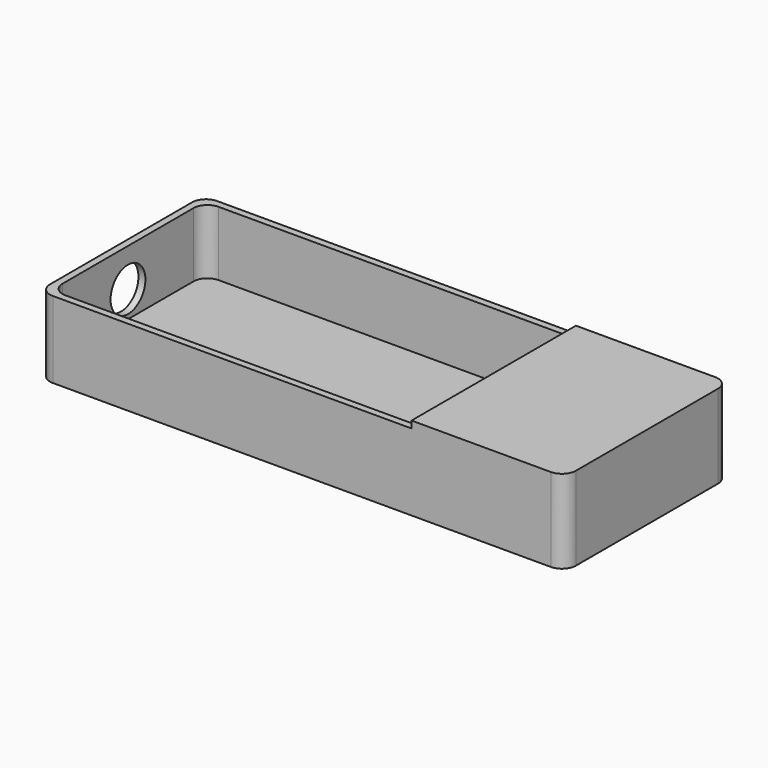
from build123d import *

# Parameters (mm, degrees)
F0_W      = 131
F0_H      = 59
F0_W_2    = 85
F0_H_2    = 55
F0_W_3    = 40
F1_DEPTH  = 22
F2_W      = 40
F2_H      = 2
F3_DEPTH  = 55
F4_W      = 85
F4_H      = 3.4782900475
F5_DEPTH  = 55
F7_DEPTH  = 2
F8_R      = 2
F9_DEPTH  = 2
F10_R     = 4
F11_DEPTH = 20
F12_DEPTH = 20
F13_R     = 4
F14_R     = 6.25
F15_DEPTH = 25


with BuildPart() as f1:
    # F0 (on Top) → F1 (new body)
    with BuildSketch(Plane.XY):
        Rectangle(F0_W, F0_H)
        with Locations((-21, 0)):
            Rectangle(F0_W_2, F0_H_2, mode=Mode.SUBTRACT)
        with Locations((43.5, 0)):
            Rectangle(F0_W_3, F0_H_2, mode=Mode.SUBTRACT)
    extrude(amount=F1_DEPTH)

    # F2 (on face) → F3 (join)
    with BuildSketch(Plane.XZ.offset(-27.5)):
        with Locations((43.5, 21)):
            Rectangle(F2_W, F2_H)
    extrude(amount=F3_DEPTH)

    # F4 (on face) → F5 (join)
    with BuildSketch(Plane.XZ.offset(-27.5)):
        with Locations((-21, 1.7391450237)):
            Rectangle(F4_W, F4_H)
    extrude(amount=F5_DEPTH)

    # F6 (on face) → F7 (join)
    with BuildSketch(Plane.XY.offset(22)):
        Polygon((21.5, -29.5), (65.5, -29.5), (65.5, 29.5), (21.5, 29.5), (21.5, 27.5), (21.5, -27.5), align=None)
    extrude(amount=F7_DEPTH)

    # F8 (on face) → F9 (cut)
    with BuildSketch(Plane(origin=(21.5, 0, 0), x_dir=(0, -1, 0), z_dir=(-1, 0, 0))):
        with Locations((0, 10.4782900475)):
            Circle(F8_R)
    extrude(amount=-F9_DEPTH, mode=Mode.SUBTRACT)

    # F10
    f10_edges = [f1.edges().sort_by_distance(p)[0] for p in [
        (65.5, -29.5, 12),
        (65.5, 29.5, 12),
        (63.5, -27.5, 10),
        (63.5, 27.5, 10),
    ]]
    fillet(f10_edges, radius=F10_R)

    # F11 (add): a face of the model
    f11_faces = [f1.faces().sort_by_distance(p)[0] for p in [
        (-65.5, 0, 11),
    ]]
    extrude(f11_faces, amount=F11_DEPTH)

    # F12 (cut): a face of the model
    f12_faces = [f1.faces().sort_by_distance(p)[0] for p in [
        (-63.5, 0, 12.7391450237),
    ]]
    extrude(f12_faces, amount=-F12_DEPTH, mode=Mode.SUBTRACT)

    # F13
    f13_edges = [f1.edges().sort_by_distance(p)[0] for p in [
        (-83.5, 27.5, 12.739145),
        (-85.5, -29.5, 11),
        (-83.5, -27.5, 12.739145),
        (-85.5, 29.5, 11),
    ]]
    fillet(f13_edges, radius=F13_R)

    # F14 (on face) → F15 (cut)
    with BuildSketch(Plane(origin=(-85.5, 0, 0), x_dir=(0, -1, 0), z_dir=(-1, 0, 0))):
        with Locations((0, 11)):
            Circle(F14_R)
    extrude(amount=-F15_DEPTH, mode=Mode.SUBTRACT)


solid = f1.part
